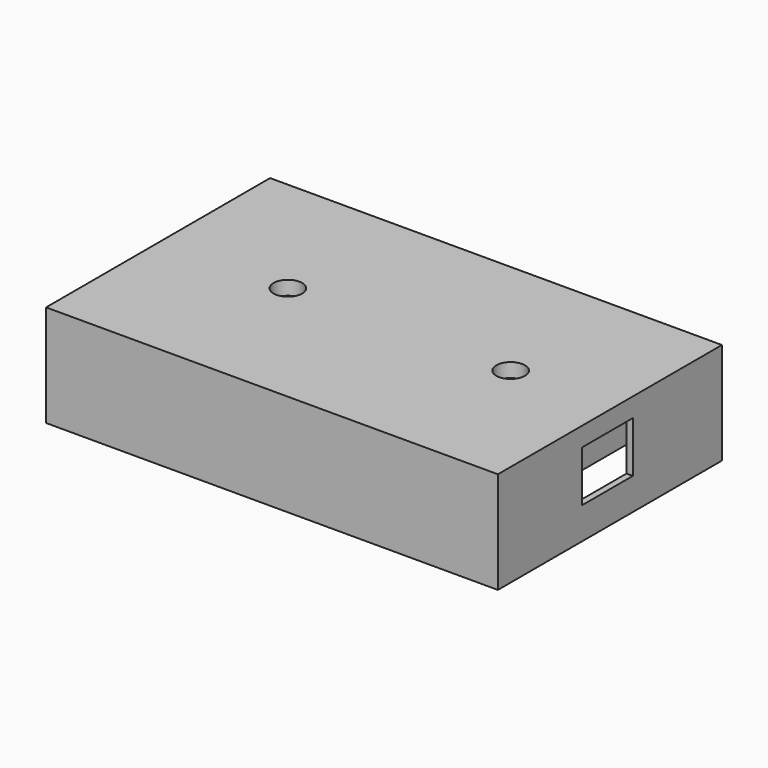
from build123d import *

# Parameters (mm, degrees)
SKETCH033_W         = 71
SKETCH033_H         = 44
PAD022_DEPTH        = 3
HOLE003_D           = 4.5
HOLE003_DEPTH       = 25
HOLE003_CSINK_D     = 6.1
HOLE003_CSINK_ANGLE = 90
PAD023_DEPTH        = 7
SKETCH036_W         = 71
SKETCH036_H         = 44
SKETCH036_W_2       = 69
SKETCH036_H_2       = 42
PAD024_DEPTH        = 13
PAD025_DEPTH        = 7
SKETCH_W            = 10
SKETCH_H            = 8
POCKET005_DEPTH     = 5
PAD026_DEPTH        = 5
PAD029_DEPTH        = 4


with BuildPart() as part:
    # Sketch033 → Pad022 (new body)
    with BuildSketch(Plane.XY):
        with Locations((35.5, 22)):
            Rectangle(SKETCH033_W, SKETCH033_H)
    extrude(amount=-PAD022_DEPTH)

    # Hole003
    with Locations(Plane(origin=(0, 0, -3), x_dir=(1, 0, 0), z_dir=(0, 0, -1))):
        with Locations((20, -22.5), (55, -22.5)):
            CounterSinkHole(HOLE003_D / 2, HOLE003_CSINK_D / 2, depth=HOLE003_DEPTH, counter_sink_angle=HOLE003_CSINK_ANGLE)

    # Sketch035 → Pad023 (join)
    with BuildSketch(Plane.XY.offset(-3)):
        Polygon((71, 39), (30, 39), (30, 34), (31, 34), (31, 38), (70, 38), (70, 6), (31, 6), (31, 10), (30, 10), (30, 5), (71, 5), align=None)
    extrude(amount=-PAD023_DEPTH)

    # Sketch036 → Pad024 (join)
    with BuildSketch(Plane.XY.offset(-3)):
        with Locations((35.5, 22)):
            Rectangle(SKETCH036_W, SKETCH036_H)
        with Locations((35.5, 22)):
            Rectangle(SKETCH036_W_2, SKETCH036_H_2, mode=Mode.SUBTRACT)
    extrude(amount=-PAD024_DEPTH)

    # Sketch038 → Pad025 (join)
    with BuildSketch(Plane.XY.offset(-3)):
        Polygon((6, 37), (6, 36), (1, 36), (1, 6), (14, 6), (14, 27), (15, 27), (15, 5), (0, 5), (0, 37), align=None)
    extrude(amount=-PAD025_DEPTH)

    # Sketch (on Face9 of Pad025) → Pocket005 (cut)
    with BuildSketch(Plane.YZ.offset(71)):
        with Locations((21.5, -7)):
            Rectangle(SKETCH_W, SKETCH_H)
    extrude(amount=-POCKET005_DEPTH, mode=Mode.SUBTRACT)

    # Sketch039 → Pad026 (join)
    with BuildSketch(Plane.XY.offset(-3)):
        Polygon((6, 36), (1.15, 36), (1.15, 6), (14, 6), (14, 27), (13, 27), (13, 7), (2.15, 7), (2.15, 35), (6, 35), align=None)
    extrude(amount=-PAD026_DEPTH)

    # Sketch042 → Pad029 (join)
    with BuildSketch(Plane.XY.offset(-3)):
        Polygon((31, 10), (31, 6), (70, 6), (70, 38), (31, 38), (31, 34), (32, 34), (32, 37), (69, 37), (69, 7), (32, 7), (32, 10), align=None)
    extrude(amount=-PAD029_DEPTH)


with BuildPart() as part_1:
    # Body011 placement: moved
    add(part.part.moved(Location((3, 3, 17))))


solid = part_1.part
